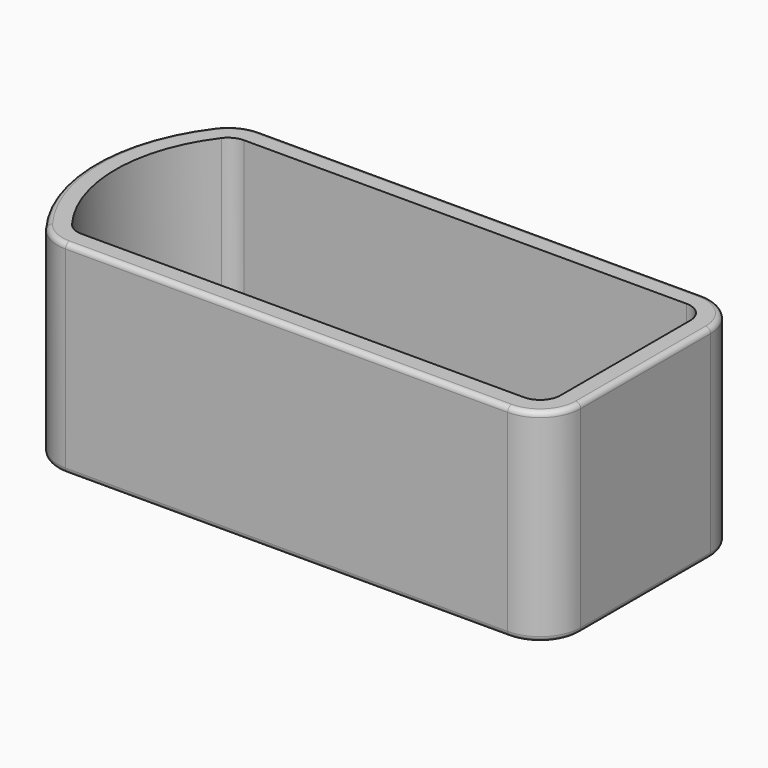
from build123d import *

# Parameters (mm, degrees)
F1_DEPTH = 2
F2_DEPTH = 20
F3_R     = 0.5
F4_R     = 0.5


with BuildPart() as f1:
    # F0 (on Top) → F1 (new body)
    with BuildSketch(Plane.XY):
        with BuildLine():
            ThreePointArc((25.901247, 4.7573), (25.315461, 6.171513), (23.901247, 6.7573))
            Line((23.901247, 6.7573), (-19.681736, 6.7573))
            ThreePointArc((-19.681736, 6.7573), (-20.573861, 6.547304), (-21.278643, 5.961413))
            ThreePointArc((-21.278643, 5.961413), (-24.359844, -3.2427), (-21.278643, -12.446813))
            ThreePointArc((-21.278643, -12.446813), (-20.573861, -13.032704), (-19.681736, -13.2427))
            Line((-19.681736, -13.2427), (23.901247, -13.2427))
            ThreePointArc((23.901247, -13.2427), (25.315461, -12.656914), (25.901247, -11.2427))
            Line((25.901247, -11.2427), (25.901247, 4.7573))
        make_face()
    extrude(amount=F1_DEPTH)

    # F0 (on Top) → F2 (join)
    with BuildSketch(Plane.XY):
        with BuildLine():
            Line((27.901247, -11.2427), (27.901247, 4.7573))
            ThreePointArc((27.901247, 4.7573), (26.729674, 7.585727), (23.901247, 8.7573))
            Line((23.901247, 8.7573), (-19.681736, 8.7573))
            ThreePointArc((-19.681736, 8.7573), (-21.465986, 8.337307), (-22.875549, 7.165527))
            ThreePointArc((-22.875549, 7.165527), (-26.359844, -3.2427), (-22.875549, -13.650927))
            ThreePointArc((-22.875549, -13.650927), (-21.465986, -14.822708), (-19.681736, -15.2427))
            Line((-19.681736, -15.2427), (23.901247, -15.2427))
            ThreePointArc((23.901247, -15.2427), (26.729674, -14.071127), (27.901247, -11.2427))
        make_face()
        with BuildLine():
            Line((-19.681736, 6.7573), (23.901247, 6.7573))
            ThreePointArc((23.901247, 6.7573), (25.315461, 6.171513), (25.901247, 4.7573))
            Line((25.901247, 4.7573), (25.901247, -11.2427))
            ThreePointArc((25.901247, -11.2427), (25.315461, -12.656914), (23.901247, -13.2427))
            Line((23.901247, -13.2427), (-19.681736, -13.2427))
            ThreePointArc((-19.681736, -13.2427), (-20.573861, -13.032704), (-21.278643, -12.446813))
            ThreePointArc((-21.278643, -12.446813), (-24.359844, -3.2427), (-21.278643, 5.961413))
            ThreePointArc((-21.278643, 5.961413), (-20.573861, 6.547304), (-19.681736, 6.7573))
        make_face(mode=Mode.SUBTRACT)
    extrude(amount=F2_DEPTH)

    # F3
    f3_edges = [f1.edges().sort_by_distance(p)[0] for p in [
        (2.109756, -15.2427, 0),
    ]]
    fillet(f3_edges, radius=F3_R)

    # F4
    f4_edges = [f1.edges().sort_by_distance(p)[0] for p in [
        (2.109756, -15.2427, 20),
    ]]
    fillet(f4_edges, radius=F4_R)


solid = f1.part
